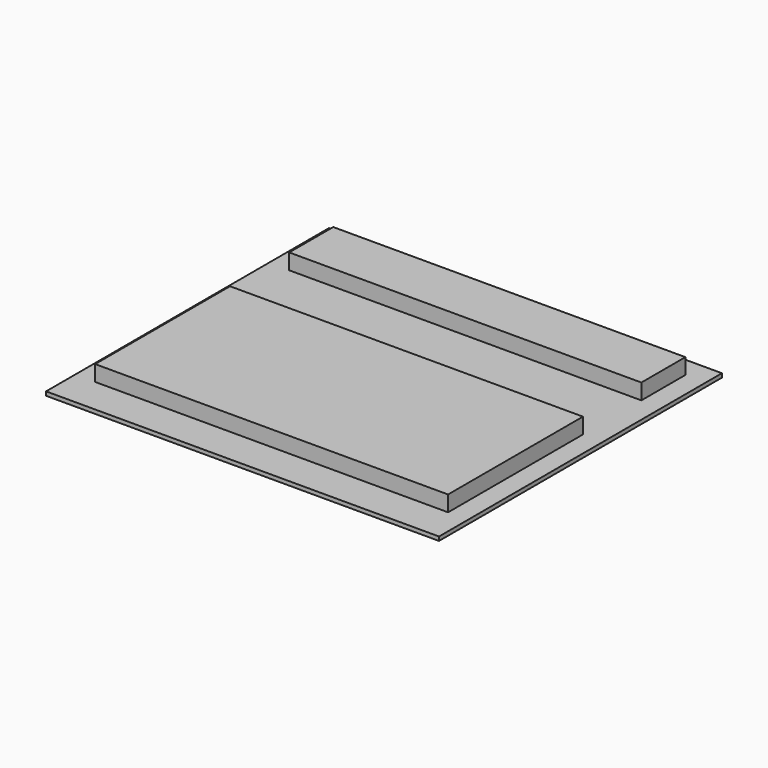
from build123d import *

# Parameters (mm, degrees)
F0_W     = 100
F0_H     = 90
F1_DEPTH = 1
F2_W     = 89.622498
F2_H     = 14
F3_DEPTH = 5
F4_W     = 89.818385
F4_H     = 42.9
F5_DEPTH = 5


with BuildPart() as f1:
    # F0 (on Top) → F1 (new body)
    with BuildSketch(Plane.XY):
        with Locations((-50, 45)):
            Rectangle(F0_W, F0_H)
    extrude(amount=F1_DEPTH)

    # F2 (on Top) → F3 (join)
    with BuildSketch(Plane.XY):
        with Locations((-50.005771, 77.865734)):
            Rectangle(F2_W, F2_H)
    extrude(amount=F3_DEPTH)

    # F4 (on Top) → F5 (join)
    with BuildSketch(Plane.XY):
        with Locations((-50.002643, 30.7011)):
            Rectangle(F4_W, F4_H)
    extrude(amount=F5_DEPTH)


solid = f1.part
